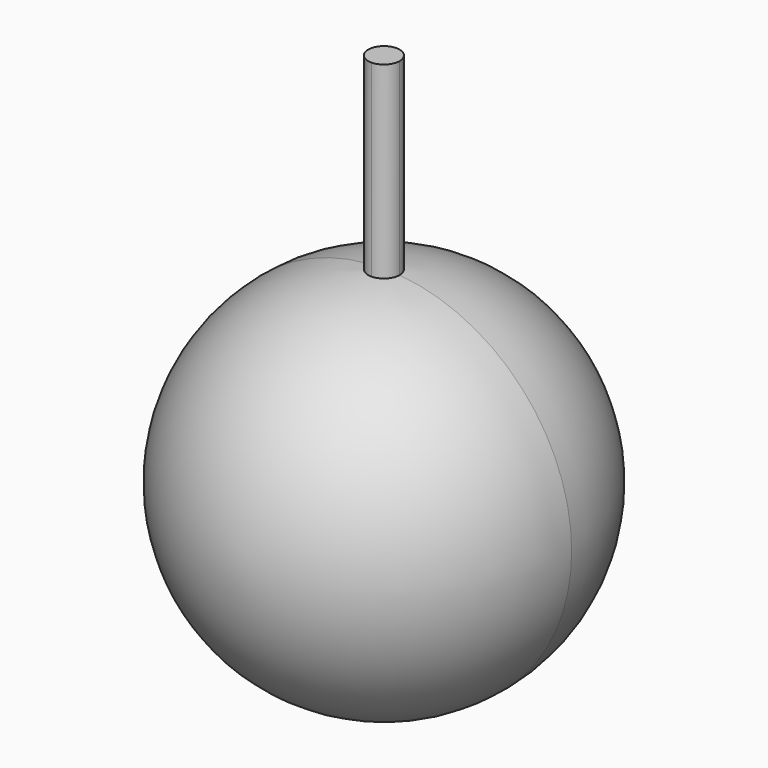
from build123d import *

# Parameters (mm, degrees)
F2_DEPTH = 76.2


with BuildPart() as f1:
    # F0 (on Top) → F1 (revolve)
    with BuildSketch(Plane.XY):
        with BuildLine():
            ThreePointArc((3.175, 0), (2.2450640303, 2.2450640303), (0, 3.175))
            Line((0, 3.175), (0, 0))
            Line((0, 0), (0, -3.175))
            ThreePointArc((0, -3.175), (2.2450640303, -2.2450640303), (3.175, 0))
        make_face()
        with BuildLine():
            ThreePointArc((0, -38.1), (26.9407683632, -26.9407683632), (38.1, 0))
            ThreePointArc((38.1, 0), (26.9407683632, 26.9407683632), (0, 38.1))
            Line((0, 38.1), (0, 3.175))
            ThreePointArc((0, 3.175), (2.2450640303, 2.2450640303), (3.175, 0))
            ThreePointArc((3.175, 0), (2.2450640303, -2.2450640303), (0, -3.175))
            Line((0, -3.175), (0, -38.1))
        make_face()
        with BuildLine():
            ThreePointArc((0, -38.1), (26.9407683632, -26.9407683632), (38.1, 0))
            ThreePointArc((38.1, 0), (26.9407683632, 26.9407683632), (0, 38.1))
            Line((0, 38.1), (0, 3.175))
            ThreePointArc((0, 3.175), (2.2450640303, 2.2450640303), (3.175, 0))
            ThreePointArc((3.175, 0), (2.2450640303, -2.2450640303), (0, -3.175))
            Line((0, -3.175), (0, -38.1))
        make_face()
    revolve(axis=Axis((0, -19.05, 0), (0, -1, 0)))

    # F0 (on Top) → F2 (join)
    with BuildSketch(Plane.XY):
        with BuildLine():
            Line((0, 0), (0, 3.175))
            ThreePointArc((0, 3.175), (-3.175, 0), (0, -3.175))
            Line((0, -3.175), (0, 0))
        make_face()
        with BuildLine():
            ThreePointArc((3.175, 0), (2.2450640303, 2.2450640303), (0, 3.175))
            Line((0, 3.175), (0, 0))
            Line((0, 0), (0, -3.175))
            ThreePointArc((0, -3.175), (2.2450640303, -2.2450640303), (3.175, 0))
        make_face()
    extrude(amount=F2_DEPTH)


solid = f1.part
